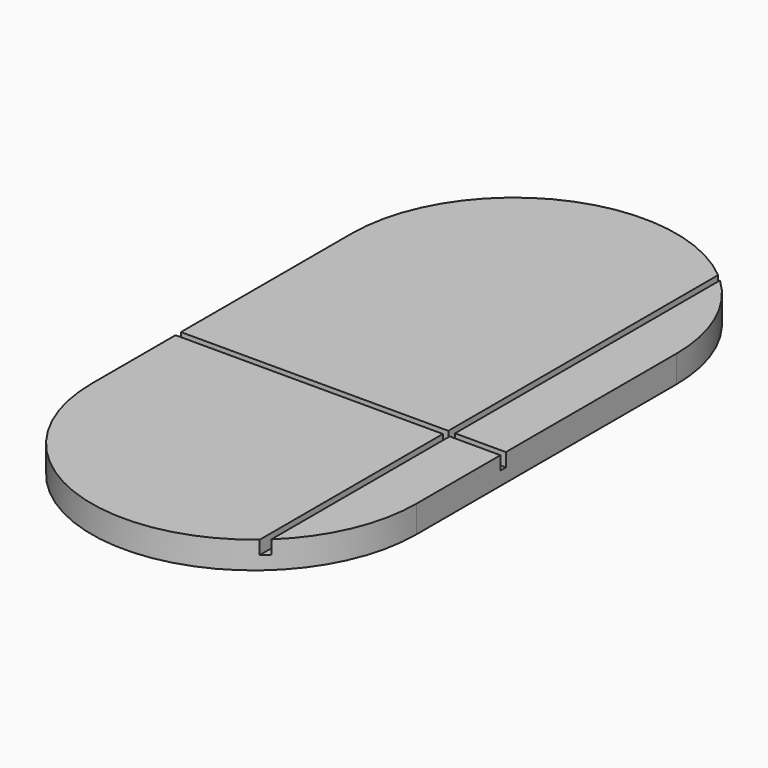
from build123d import *

# Parameters (mm, degrees)
F1_DEPTH = 25.4
F2_W     = 6.35
F2_H     = 214.7791119815
F2_W_2   = 250.825
F2_H_2   = 6.35
F2_W_3   = 47.625
F2_H_3   = 316.3791119815
F3_DEPTH = 12.7


with BuildPart() as f1:
    # F0 (on Top) → F1 (new body)
    with BuildSketch(Plane.XY):
        with BuildLine():
            ThreePointArc((304.8, 0), (152.4, 152.4), (0, 0))
            Line((0, 0), (0, -304.8))
            ThreePointArc((0, -304.8), (152.4, -457.2), (304.8, -304.8))
            Line((304.8, -304.8), (304.8, 0))
        make_face()
    extrude(amount=F1_DEPTH)

    # F2 (on face) → F3 (cut)
    with BuildSketch(Plane.XY.offset(25.4)):
        with Locations((254, -313.7645559907)):
            Rectangle(F2_W, F2_H)
        with Locations((125.4125, -203.2)):
            Rectangle(F2_W_2, F2_H_2)
        with Locations((254, -203.2)):
            Rectangle(F2_W, F2_H_2)
        with Locations((280.9875, -203.2)):
            Rectangle(F2_W_3, F2_H_2)
        with Locations((254, -41.8354440093)):
            Rectangle(F2_W, F2_H_3)
    extrude(amount=-F3_DEPTH, mode=Mode.SUBTRACT)


solid = f1.part
